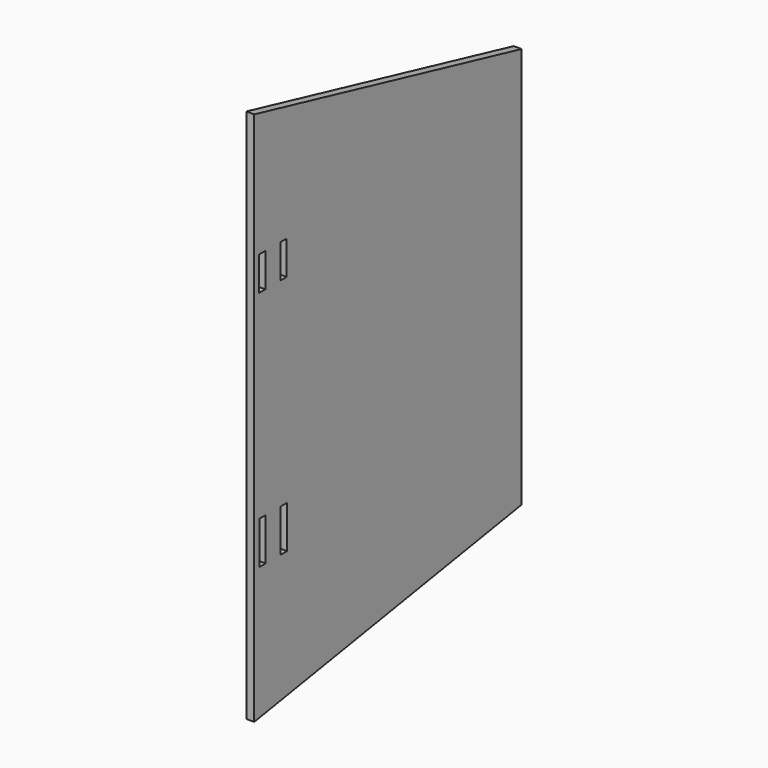
from build123d import *

# Parameters (mm, degrees)
F0_W     = 3
F0_H     = 16.165595
F0_H_2   = 12.856834
F1_DEPTH = 3


with BuildPart() as f1:
    # F0 (on Right) → F1 (new body)
    with BuildSketch(Plane.YZ):
        Polygon((101.258113, 32.087279), (-25.741887, 61.851164), (-25.741887, -141.348836), (101.258113, -120.312721), align=None)
        with Locations((-21.8319, -82.466038)):
            Rectangle(F0_W, F0_H, mode=Mode.SUBTRACT)
        with Locations((-11.68815, -82.466038)):
            Rectangle(F0_W, F0_H, mode=Mode.SUBTRACT)
        with Locations((-21.991294, 7.635576)):
            Rectangle(F0_W, F0_H_2, mode=Mode.SUBTRACT)
        with Locations((-11.853894, 7.635576)):
            Rectangle(F0_W, F0_H_2, mode=Mode.SUBTRACT)
    extrude(amount=F1_DEPTH)


solid = f1.part
